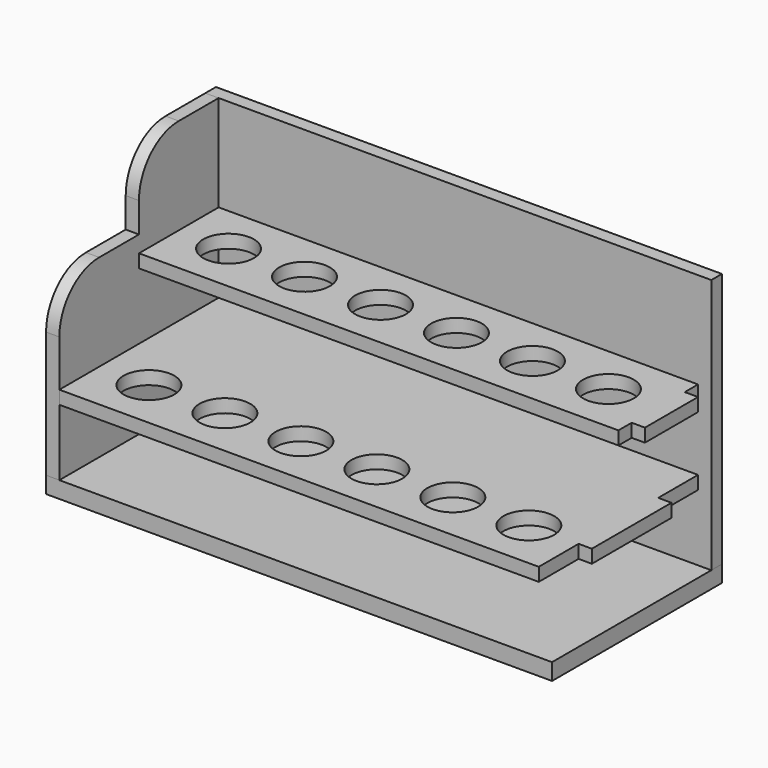
from build123d import *

# Parameters (mm, degrees)
F0_R      = 7.65
F1_DEPTH  = 4
F2_W      = 30
F2_H      = 4
F2_W_2    = 20
F3_DEPTH  = 4
F5_R      = 7.65
F6_DEPTH  = 4
F7_W      = 152.5
F7_H      = 77
F8_DEPTH  = 4
F9_W      = 152.5
F9_H      = 64
F10_DEPTH = 5


with BuildPart() as f1:
    # F0 (on Top) → F1 (new body)
    with BuildSketch(Plane.XY):
        Polygon((72.25, 60), (-72.25, 60), (-72.25, 45), (-76.25, 45), (-76.25, 15), (-72.25, 15), (-72.25, 0), (72.25, 0), (72.25, 15), (76.25, 15), (76.25, 45), (72.25, 45), align=None)
        with Locations((-57.25, 15)):
            Circle(F0_R, mode=Mode.SUBTRACT)
        with Locations((-34.35, 15)):
            Circle(F0_R, mode=Mode.SUBTRACT)
        with Locations((-11.45, 15)):
            Circle(F0_R, mode=Mode.SUBTRACT)
        with Locations((11.45, 15)):
            Circle(F0_R, mode=Mode.SUBTRACT)
        with Locations((34.35, 15)):
            Circle(F0_R, mode=Mode.SUBTRACT)
        with Locations((57.25, 15)):
            Circle(F0_R, mode=Mode.SUBTRACT)
        Polygon((72.25, 60), (-72.25, 60), (-72.25, 45), (-76.25, 45), (-76.25, 15), (-72.25, 15), (-72.25, 0), (72.25, 0), (72.25, 15), (76.25, 15), (76.25, 45), (72.25, 45), align=None)
        with Locations((-57.25, 15)):
            Circle(F0_R, mode=Mode.SUBTRACT)
        with Locations((-34.35, 15)):
            Circle(F0_R, mode=Mode.SUBTRACT)
        with Locations((-11.45, 15)):
            Circle(F0_R, mode=Mode.SUBTRACT)
        with Locations((11.45, 15)):
            Circle(F0_R, mode=Mode.SUBTRACT)
        with Locations((34.35, 15)):
            Circle(F0_R, mode=Mode.SUBTRACT)
        with Locations((57.25, 15)):
            Circle(F0_R, mode=Mode.SUBTRACT)
        Polygon((72.25, 60), (-72.25, 60), (-72.25, 45), (-76.25, 45), (-76.25, 15), (-72.25, 15), (-72.25, 0), (72.25, 0), (72.25, 15), (76.25, 15), (76.25, 45), (72.25, 45), align=None)
        with Locations((-57.25, 15)):
            Circle(F0_R, mode=Mode.SUBTRACT)
        with Locations((-34.35, 15)):
            Circle(F0_R, mode=Mode.SUBTRACT)
        with Locations((-11.45, 15)):
            Circle(F0_R, mode=Mode.SUBTRACT)
        with Locations((11.45, 15)):
            Circle(F0_R, mode=Mode.SUBTRACT)
        with Locations((34.35, 15)):
            Circle(F0_R, mode=Mode.SUBTRACT)
        with Locations((57.25, 15)):
            Circle(F0_R, mode=Mode.SUBTRACT)
    extrude(amount=F1_DEPTH)


with BuildPart() as f3:
    # F2 (on face) → F3 (new body)
    with BuildSketch(Plane(origin=(-72.25, 0, 0), x_dir=(0, -1, 0), z_dir=(-1, 0, 0))):
        with BuildLine():
            Line((-60, 33), (-60, -20))
            Line((-60, -20), (0, -20))
            Line((0, -20), (0, 18))
            ThreePointArc((0, 18), (-4.3933982822, 28.6066017178), (-15, 33))
            Line((-15, 33), (-30, 33))
            Line((-30, 33), (-30, 42))
            ThreePointArc((-30, 42), (-34.3933982822, 52.6066017178), (-45, 57))
            Line((-45, 57), (-60, 57))
            Line((-60, 57), (-60, 33))
        make_face()
        with Locations((-30, 2)):
            Rectangle(F2_W, F2_H, mode=Mode.SUBTRACT)
        with Locations((-45, 26)):
            Rectangle(F2_W_2, F2_H, mode=Mode.SUBTRACT)
    extrude(amount=F3_DEPTH)


with BuildPart() as f6:
    # F5 (on offset) → F6 (new body)
    with BuildSketch(Plane.XY.offset(24)):
        Polygon((72.25, 60), (-72.25, 60), (-72.25, 55), (-76.25, 55), (-76.25, 35), (-72.25, 35), (-72.25, 30), (72.25, 30), (72.25, 35), (76.25, 35), (76.25, 55), (72.25, 55), align=None)
        with Locations((-57.25, 45)):
            Circle(F5_R, mode=Mode.SUBTRACT)
        with Locations((-34.35, 45)):
            Circle(F5_R, mode=Mode.SUBTRACT)
        with Locations((-11.45, 45)):
            Circle(F5_R, mode=Mode.SUBTRACT)
        with Locations((11.45, 45)):
            Circle(F5_R, mode=Mode.SUBTRACT)
        with Locations((34.35, 45)):
            Circle(F5_R, mode=Mode.SUBTRACT)
        with Locations((57.25, 45)):
            Circle(F5_R, mode=Mode.SUBTRACT)
    extrude(amount=F6_DEPTH)


with BuildPart() as f8:
    # F7 (on face) → F8 (new body)
    with BuildSketch(Plane(origin=(0, 60, 0), x_dir=(-1, 0, 0), z_dir=(0, 1, 0))):
        with Locations((0, 18.5)):
            Rectangle(F7_W, F7_H)
    extrude(amount=F8_DEPTH)


with BuildPart() as f10:
    # F9 (on face) → F10 (new body)
    with BuildSketch(Plane(origin=(0, 0, -20), x_dir=(1, 0, 0), z_dir=(0, 0, -1))):
        with Locations((0, -32)):
            Rectangle(F9_W, F9_H)
    extrude(amount=F10_DEPTH)


solid = Compound([f1.part, f3.part, f6.part, f8.part, f10.part])
